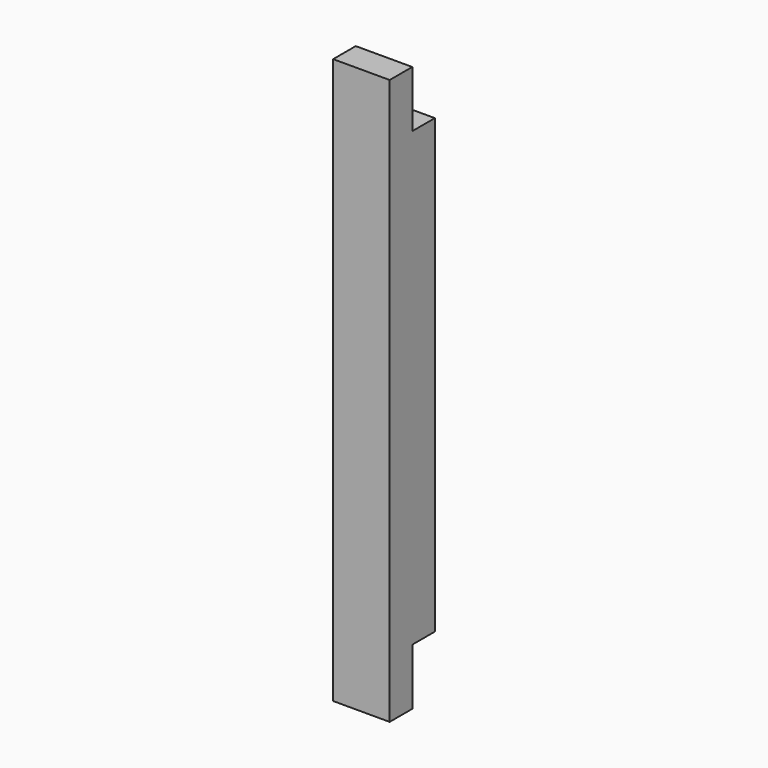
from build123d import *

# Parameters (mm, degrees)
F0_W     = 100
F0_H     = 100
F1_DEPTH = 1000
F2_W     = 50
F2_H     = 100
F3_DEPTH = 100.001


with BuildPart() as f1:
    # F0 (on Top) → F1 (new body)
    with BuildSketch(Plane.XY):
        Rectangle(F0_W, F0_H)
    extrude(amount=F1_DEPTH)

    # F2 (on face) → F3 (cut, through all)
    with BuildSketch(Plane.YZ.offset(50)):
        with Locations((25, 50)):
            Rectangle(F2_W, F2_H)
        with Locations((25, 950)):
            Rectangle(F2_W, F2_H)
    extrude(amount=-F3_DEPTH, mode=Mode.SUBTRACT)


solid = f1.part
